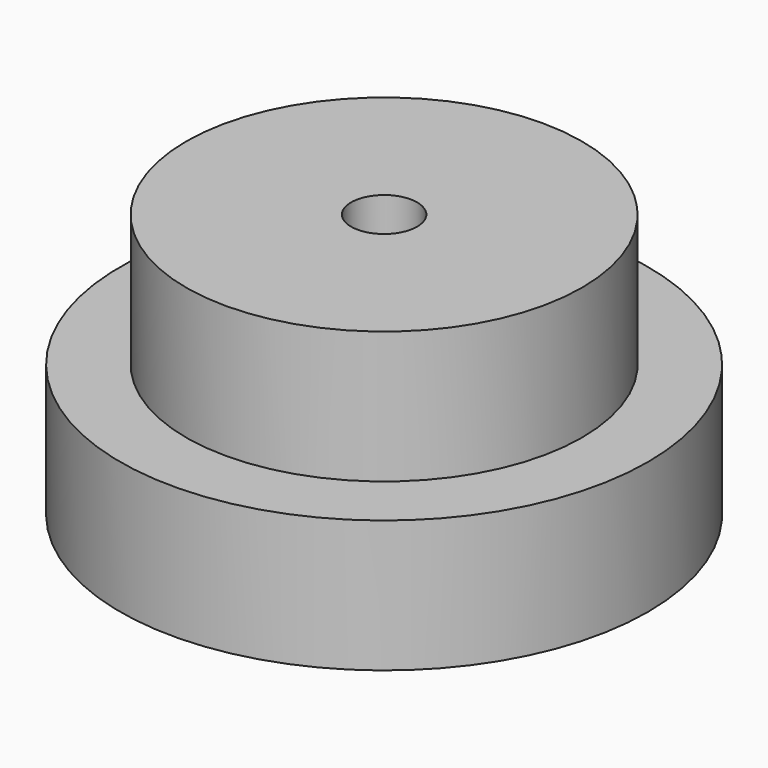
from build123d import *

# Parameters (mm, degrees)
F0_R     = 10
F0_R_2   = 7.5
F1_DEPTH = 5
F2_R     = 7.5
F3_DEPTH = 5
F4_R     = 1.25
F5_DEPTH = 25.4


with BuildPart() as f1:
    # F0 (on Top) → F1 (new body)
    with BuildSketch(Plane.XY):
        Circle(F0_R)
        Circle(F0_R_2, mode=Mode.SUBTRACT)
        Circle(F0_R_2)
    extrude(amount=F1_DEPTH)

    # F2 (on face) → F3 (join)
    with BuildSketch(Plane.XY.offset(5)):
        Circle(F2_R)
    extrude(amount=F3_DEPTH)

    # F4 (on face) → F5 (cut)
    with BuildSketch(Plane.XY.offset(10)):
        Circle(F4_R)
    extrude(amount=-F5_DEPTH, mode=Mode.SUBTRACT)


solid = f1.part
